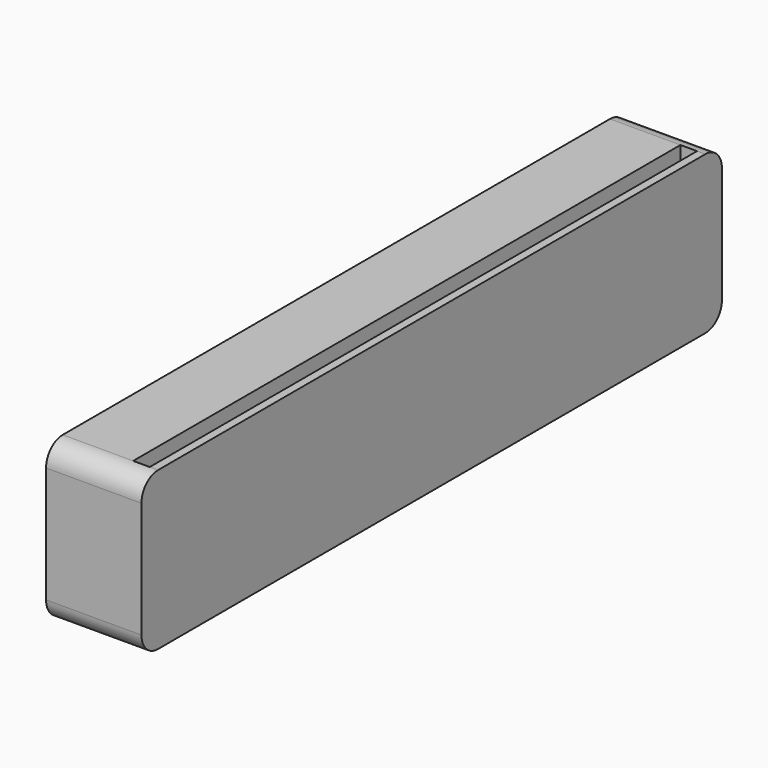
from build123d import *

# Parameters (mm, degrees)
F0_W     = 23
F0_H     = 38
F1_DEPTH = 175
F2_R     = 5
F4_DEPTH = 7
F5_W     = 4
F5_H     = 165
F6_DEPTH = 7


with BuildPart() as f1:
    # F0 (on Front) → F1 (new body)
    with BuildSketch(Plane.XZ):
        Rectangle(F0_W, F0_H)
    extrude(amount=F1_DEPTH)

    # F2
    f2_edges = [f1.edges().sort_by_distance(p)[0] for p in [
        (0, -175, 19),
        (0, -175, -19),
        (0, 0, 19),
        (0, 0, -19),
    ]]
    fillet(f2_edges, radius=F2_R)

    # F3 (on face) → F4 (cut)
    with BuildSketch(Plane(origin=(0, 0, -19), x_dir=(1, 0, 0), z_dir=(0, 0, -1))):
        Polygon((3.105181, 45.005862), (1.894584, 170), (-3.105181, 169.951576), (-1.894584, 44.957438), align=None)
    extrude(amount=-F4_DEPTH, mode=Mode.SUBTRACT)

    # F5 (on face) → F6 (cut)
    with BuildSketch(Plane.XY.offset(19)):
        with Locations((7.5, -87.5)):
            Rectangle(F5_W, F5_H)
    extrude(amount=-F6_DEPTH, mode=Mode.SUBTRACT)


solid = f1.part
